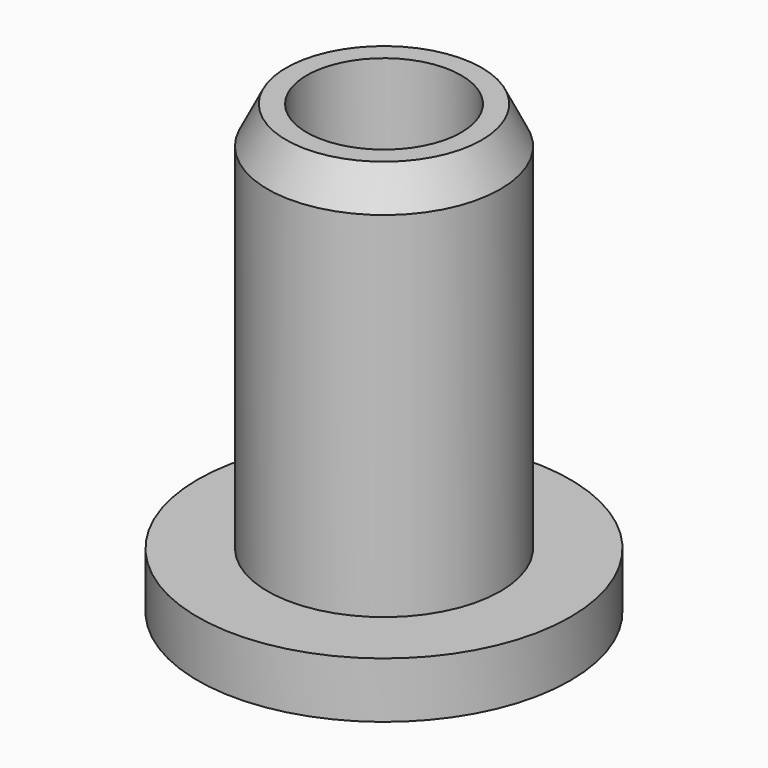
from build123d import *

# Parameters (mm, degrees)
F0_R     = 10
F1_DEPTH = 3
F2_R     = 6.25
F3_DEPTH = 21
F4_R     = 4.15
F5_DEPTH = 25
F6_SIZE2 = 2
F6_SIZE  = 1


with BuildPart() as f1:
    # F0 (on Top) → F1 (new body)
    with BuildSketch(Plane.XY):
        Circle(F0_R)
    extrude(amount=F1_DEPTH)

    # F2 (on face) → F3 (join)
    with BuildSketch(Plane.XY.offset(3)):
        Circle(F2_R)
    extrude(amount=F3_DEPTH)

    # F4 (on face) → F5 (cut)
    with BuildSketch(Plane.XY.offset(24)):
        Circle(F4_R)
    extrude(amount=-F5_DEPTH, mode=Mode.SUBTRACT)

    # F6
    f6_edges = [f1.edges().sort_by_distance(p)[0] for p in [
        (-6.25, 0, 24),
    ]]
    f6_side = f1.faces().sort_by_distance((-6.073223, 0, 24))[0]
    chamfer(f6_edges, length=F6_SIZE, length2=F6_SIZE2, reference=f6_side)


solid = f1.part
